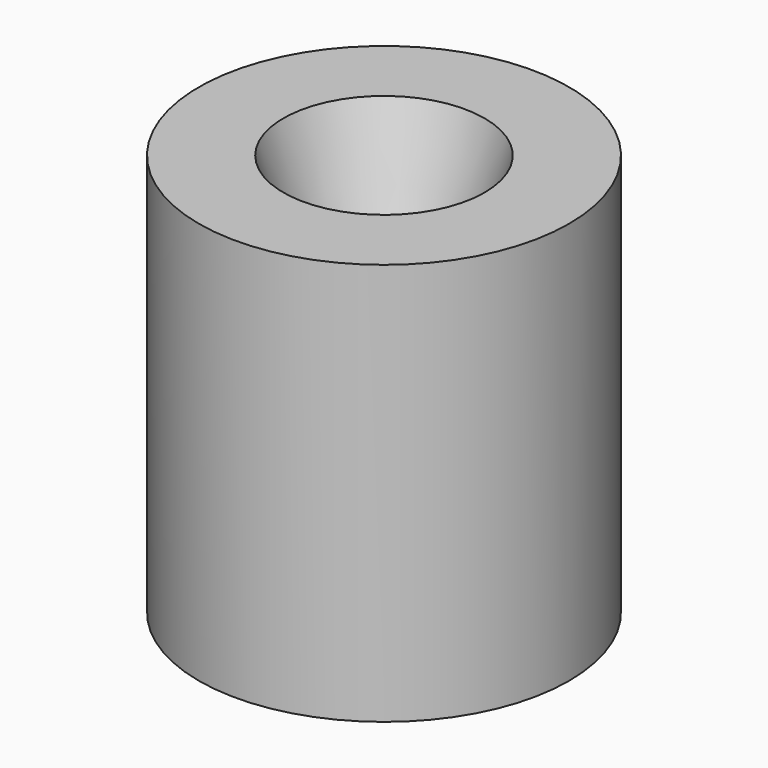
from build123d import *

# Parameters (mm, degrees)
F0_R      = 4.6
F1_DEPTH  = 10
F2_R      = 0.95
F4_DEPTH  = 5
F4_FACE_R = 0.95
F3_R      = 2.5


with BuildPart() as f1:
    # F0 (on Top) → F1 (new body)
    with BuildSketch(Plane.XY):
        Circle(F0_R)
    extrude(amount=F1_DEPTH)

    # F2 (on face) → F4 (cut)
    with BuildSketch(Plane(origin=(0, 0, 0), x_dir=(1, 0, 0), z_dir=(0, 0, -1))):
        Circle(F2_R)
    extrude(amount=-F4_DEPTH, mode=Mode.SUBTRACT)

    # F4_face (on face) → F5 section 0
    with BuildSketch(Plane(origin=(0, 0, 5), x_dir=(1, 0, 0), z_dir=(0, 0, -1))):
        Circle(F4_FACE_R)
    # F3 (on face) → F5 section 1
    with BuildSketch(Plane.XY.offset(10)):
        Circle(F3_R)
    loft(mode=Mode.SUBTRACT)


solid = f1.part
